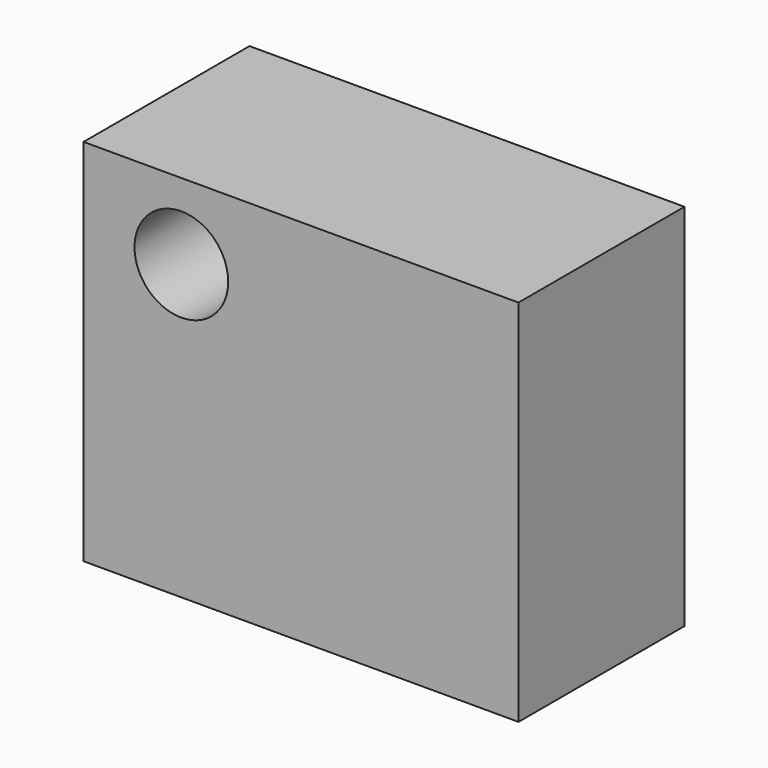
from build123d import *

# Parameters (mm, degrees)
F0_R     = 11.286326
F1_DEPTH = 50
F2_DEPTH = 25


with BuildPart() as f1:
    # F0 (on Front) → F1 (new body)
    with BuildSketch(Plane.XZ):
        Polygon((-12.432705, 36.929358), (-52.421685, 36.929358), (-52.421685, -52.061394), (52.421674, -52.061394), (52.421674, 36.929358), (-12.429886, 36.929358), align=None)
        with Locations((-28.847836, 18.577401)):
            Circle(F0_R, mode=Mode.SUBTRACT)
    extrude(amount=F1_DEPTH)

    # F0 (on Front) → F2 (cut)
    with BuildSketch(Plane.XZ):
        with Locations((-28.847836, 18.577401)):
            Circle(F0_R)
    extrude(amount=-F2_DEPTH, mode=Mode.SUBTRACT)


solid = f1.part
